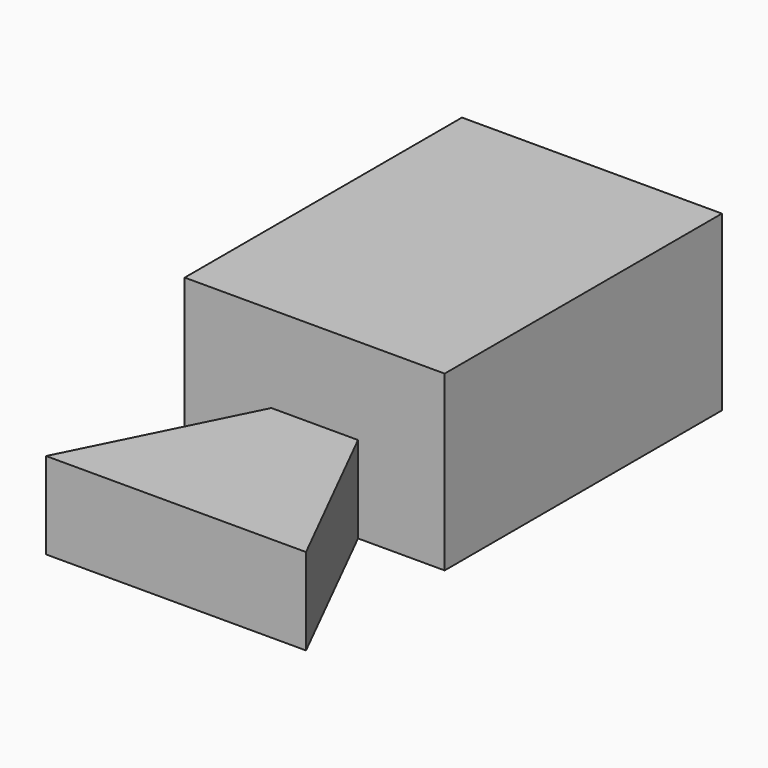
from build123d import *

# Parameters (mm, degrees)
F1_DEPTH = 25.4
F3_DEPTH = 25.4


with BuildPart() as f1:
    # F0 (on Top) → F1 (new body)
    with BuildSketch(Plane.XY):
        Polygon((15.399892, -23.157786), (-10.000108, -23.157786), (-35.400108, -73.957786), (40.799892, -73.957786), align=None)
        Polygon((40.799892, 78.442214), (-35.400108, 78.442214), (-35.400108, -23.157786), (-10.000108, -23.157786), (15.399892, -23.157786), (40.799892, -23.157786), align=None)
    extrude(amount=F1_DEPTH)

    # F2 (on face) → F3 (join)
    with BuildSketch(Plane.XY.offset(25.4)):
        Polygon((40.799892, -23.157786), (40.799892, 78.442214), (-35.400108, 78.442214), (-35.400108, -23.157786), (-10.000108, -23.157786), (15.399892, -23.157786), align=None)
    extrude(amount=F3_DEPTH)


solid = f1.part
